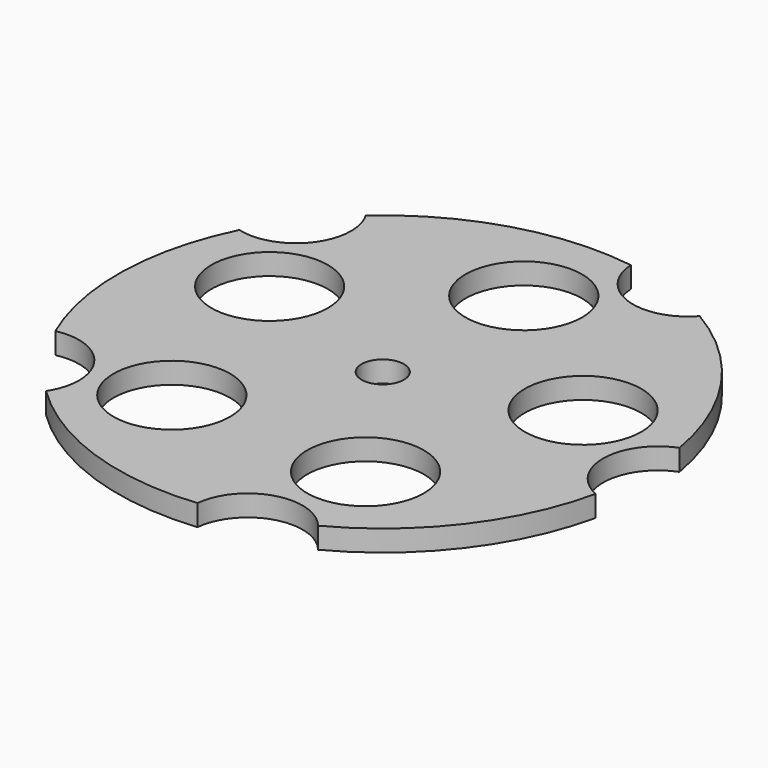
from build123d import *

# Parameters (mm, degrees)
F0_R     = 8.254233
F0_R_2   = 3
F1_DEPTH = 3


with BuildPart() as f1:
    # F0 (on Top) → F1 (new body)
    with BuildSketch(Plane.XY):
        with BuildLine():
            ThreePointArc((74.116056, 29.405901), (69.468273, 36.718438), (74.467844, 43.795115))
            ThreePointArc((74.467844, 43.795115), (68.367797, 58.793875), (56.512929, 69.822724))
            ThreePointArc((56.512929, 69.822724), (48.12205, 67.662118), (42.936682, 74.603807))
            ThreePointArc((42.936682, 74.603807), (26.786995, 73.437189), (12.634581, 65.570642))
            ThreePointArc((12.634581, 65.570642), (13.425906, 63.679833), (13.69593, 61.647977))
            ThreePointArc((13.69593, 61.647977), (10.647892, 55.472658), (3.89221, 54.136299))
            ThreePointArc((3.89221, 54.136299), (0.011202, 38.416529), (3.119396, 22.525886))
            ThreePointArc((3.119396, 22.525886), (9.655103, 20.982101), (12.553625, 14.92427))
            ThreePointArc((12.553625, 14.92427), (12.231699, 12.709481), (11.292561, 10.677991))
            ThreePointArc((11.292561, 10.677991), (25.043654, 2.129257), (41.117038, 0.174847))
            ThreePointArc((41.117038, 0.174847), (46.635429, 6.85485), (54.910703, 4.286788))
            ThreePointArc((54.910703, 4.286788), (67.290353, 14.72315), (74.116056, 29.405901))
        make_face()
        with Locations((22.774505, 18.580784)):
            Circle(F0_R, mode=Mode.SUBTRACT)
        with Locations((50.942816, 17.648862)):
            Circle(F0_R, mode=Mode.SUBTRACT)
        with Locations((14.956328, 45.658419)):
            Circle(F0_R, mode=Mode.SUBTRACT)
        with Locations((37.5, 37.5)):
            Circle(F0_R_2, mode=Mode.SUBTRACT)
        with Locations((38.29274, 61.461397)):
            Circle(F0_R, mode=Mode.SUBTRACT)
        with Locations((60.533612, 44.150539)):
            Circle(F0_R, mode=Mode.SUBTRACT)
    extrude(amount=F1_DEPTH)


solid = f1.part
